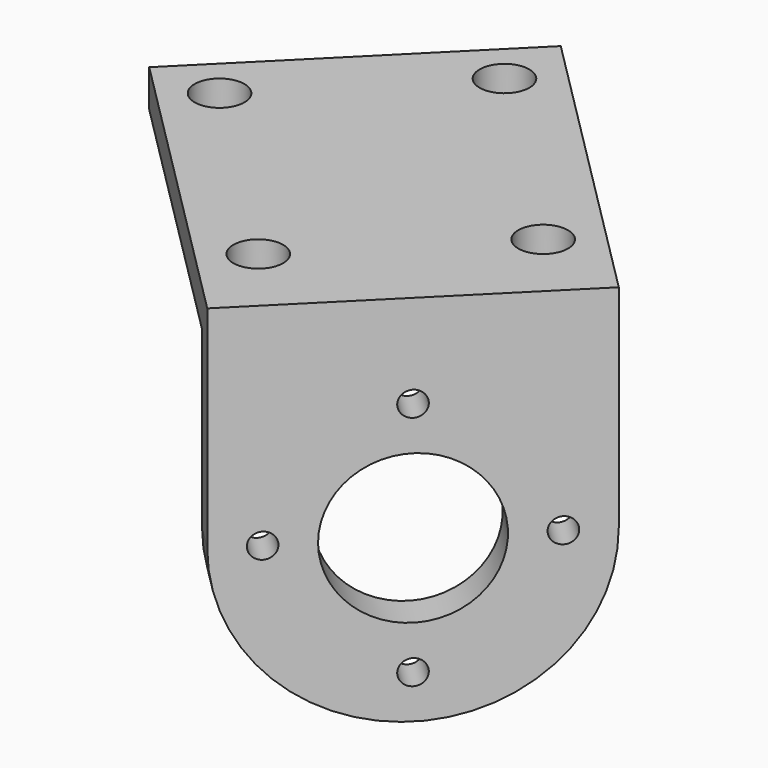
from build123d import *

# Parameters (mm, degrees)
SKETCH092_R             = 6
PAD066_DEPTH            = 3
SKETCH093_W             = 26
SKETCH093_H             = 3
PAD067_DEPTH            = 30
SKETCH094_R             = 2
POCKET034_DEPTH         = 30.001
SKETCH095_R             = 1
POCKET035_DEPTH         = 136.248276
POLARPATTERN014_COUNT   = 4
BODY040_PLACEMENT_ANGLE = 225


with BuildPart() as part:
    # Sketch092 → Pad066 (new body)
    with BuildSketch(Plane.XZ):
        with BuildLine():
            Line((-13, 17), (13, 17))
            Line((13, 17), (13, 0))
            ThreePointArc((-13, 0), (0, -13), (13, 0))
            Line((-13, 17), (-13, 0))
        make_face()
        Circle(SKETCH092_R, mode=Mode.SUBTRACT)
    extrude(amount=PAD066_DEPTH)

    # Sketch093 (on Face7 of Pad066) → Pad067 (join)
    with BuildSketch(Plane.XZ.offset(3)):
        with Locations((0, 15.5)):
            Rectangle(SKETCH093_W, SKETCH093_H)
    extrude(amount=PAD067_DEPTH)

    # Sketch094 (on Face5 of Pad067) → Pocket034 (cut, through all)
    with BuildSketch(Plane(origin=(0, 0, 17), x_dir=(-1, 0, 0), z_dir=(0, 0, 1))):
        with Locations((-9, 7)):
            Circle(SKETCH094_R)
        with Locations((9, 7)):
            Circle(SKETCH094_R)
        with Locations((-9, 29)):
            Circle(SKETCH094_R)
        with Locations((9, 29)):
            Circle(SKETCH094_R)
    extrude(amount=-POCKET034_DEPTH, mode=Mode.SUBTRACT)

    # Sketch095 (on Face4 of Pocket034) → Pocket035 (cut, through all)
    with BuildSketch(Plane(origin=(0, 0, 0), x_dir=(1, 0, 0), z_dir=(0, 1, 0))):
        with Locations((0, 9.5)):
            Circle(SKETCH095_R)
    pocket035 = extrude(amount=-POCKET035_DEPTH, mode=Mode.SUBTRACT)

    # PolarPattern014: Pocket035 ×4 about axis
    polarpattern014_axis = Axis((0, 0, 0), (0, 1, 0))
    for i in range(1, POLARPATTERN014_COUNT):
        add(pocket035.rotate(polarpattern014_axis, i * 360 / POLARPATTERN014_COUNT), mode=Mode.SUBTRACT)


with BuildPart() as part_1:
    # Body040 placement: moved
    add(part.part.moved(Location((52.220082, -51.22012, -7))).rotate(Axis((52.220082, -51.22012, -7), (0, 0, 1)), BODY040_PLACEMENT_ANGLE))


solid = part_1.part
